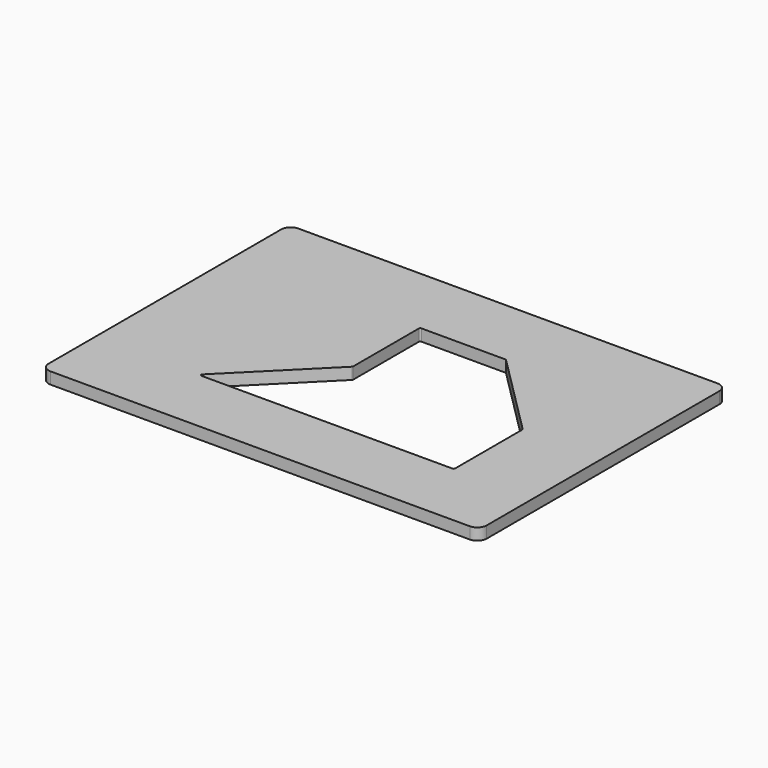
from build123d import *

# Parameters (mm, degrees)
F1_DEPTH = 6.35
F3_DEPTH = 25.4
F5_DEPTH = 25.4


with BuildPart() as f1:
    # F0 (on Top) → F1 (new body)
    with BuildSketch(Plane.XY):
        with BuildLine():
            Line((113.9825, 84.1375), (-113.9825, 84.1375))
            ThreePointArc((-113.9825, 84.1375), (-117.574602, 82.649602), (-119.0625, 79.0575))
            Line((-119.0625, 79.0575), (-119.0625, -79.0575))
            ThreePointArc((-119.0625, -79.0575), (-117.574602, -82.649602), (-113.9825, -84.1375))
            Line((-113.9825, -84.1375), (113.9825, -84.1375))
            ThreePointArc((113.9825, -84.1375), (117.574602, -82.649602), (119.0625, -79.0575))
            Line((119.0625, -79.0575), (119.0625, 79.0575))
            ThreePointArc((119.0625, 79.0575), (117.574602, 82.649602), (113.9825, 84.1375))
        make_face()
    extrude(amount=F1_DEPTH)

    # F2 (on face) → F3 (cut)
    with BuildSketch(Plane.XY.offset(6.35)):
        Polygon((-15.246781, -1.136219), (-60.148061, -46.0375), (74.6125, -46.0375), (74.6125, -1.0795), (29.711219, 43.821781), (-15.246781, 43.821781), align=None)
    extrude(amount=-F3_DEPTH, mode=Mode.SUBTRACT)

    # F4 (on face) → F5 (cut)
    with BuildSketch(Plane.XY.offset(6.35)):
        with BuildLine():
            ThreePointArc((75.8825, -0.879601), (75.822563, -0.578276), (75.651876, -0.322825))
            Line((75.651876, -0.322825), (30.467895, 44.861156))
            ThreePointArc((30.467895, 44.861156), (30.212444, 45.031843), (29.911119, 45.091781))
            Line((29.911119, 45.091781), (-15.729381, 45.091781))
            ThreePointArc((-15.729381, 45.091781), (-16.286156, 44.861156), (-16.516781, 44.304381))
            Line((-16.516781, 44.304381), (-16.516781, -0.284016))
            ThreePointArc((-16.516781, -0.284016), (-16.576718, -0.585341), (-16.747405, -0.840792))
            Line((-16.747405, -0.840792), (-61.869937, -45.963324))
            ThreePointArc((-61.869937, -45.963324), (-62.040623, -46.821425), (-61.313161, -47.3075))
            Line((-61.313161, -47.3075), (75.0951, -47.3075))
            ThreePointArc((75.0951, -47.3075), (75.651876, -47.076876), (75.8825, -46.5201))
            Line((75.8825, -46.5201), (75.8825, -0.879601))
        make_face()
    extrude(amount=-F5_DEPTH, mode=Mode.SUBTRACT)


solid = f1.part
